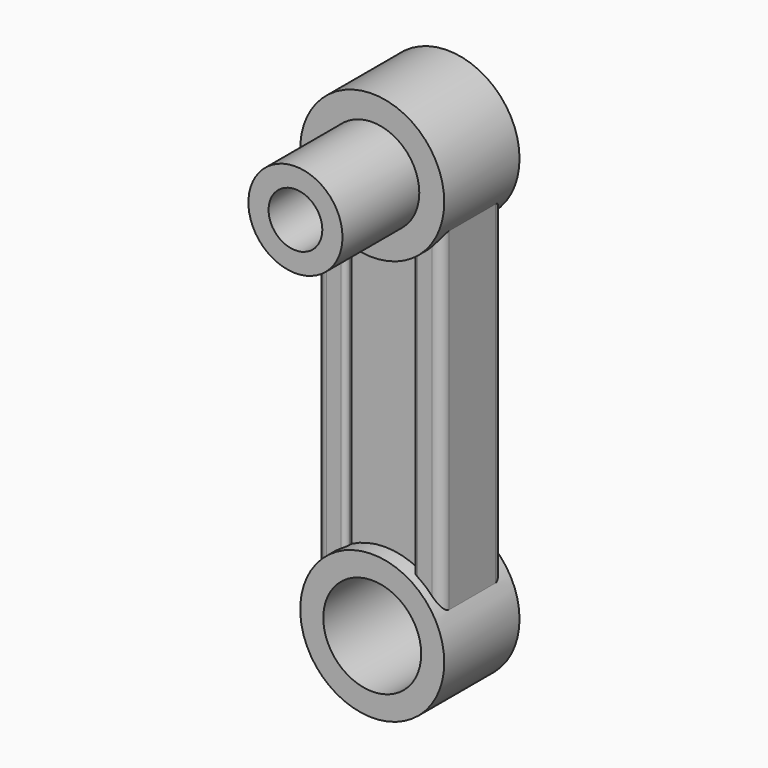
from build123d import *

# Parameters (mm, degrees)
F0_R           = 3.75
F0_R_2         = 2.55
F0_R_3         = 2.45
F1_DEPTH       = 4.9
F6_R           = 2.45
F7_DEPTH       = 5
F8_D           = 2.8
F8_CBORE_D     = 3.8
F8_CBORE_DEPTH = 1.5


with BuildPart() as f1:
    # F0 (on Front) → F1 (new body)
    with BuildSketch(Plane.XZ):
        with Locations((0, -10.556)):
            Circle(F0_R)
        with Locations((0, -10.556)):
            Circle(F0_R_2, mode=Mode.SUBTRACT)
        with Locations((0, 10.556)):
            Circle(F0_R)
        with Locations((0, 10.556)):
            Circle(F0_R_3, mode=Mode.SUBTRACT)
        with Locations((0, 10.556)):
            Circle(F0_R_3)
    extrude(amount=F1_DEPTH)

    # F2 (on Top) → F3 (join, up to the next surface of F1)
    with BuildSketch(Plane.XY):
        with BuildLine():
            Line((-2, -0.45), (-2.75, -0.45))
            ThreePointArc((-2.75, -0.45), (-3.1035533906, -0.5964466094), (-3.25, -0.95))
            Line((-3.25, -0.95), (-3.25, -3.95))
            ThreePointArc((-3.25, -3.95), (-3.1035533906, -4.3035533906), (-2.75, -4.45))
            Line((-2.75, -4.45), (-2, -4.45))
            ThreePointArc((-2, -4.45), (-1.8232233047, -4.3767766953), (-1.75, -4.2))
            Line((-1.75, -4.2), (-1.75, -4.075))
            Line((-1.75, -4.075), (1.75, -4.075))
            Line((1.75, -4.075), (1.75, -4.2))
            ThreePointArc((1.75, -4.2), (1.8232233047, -4.3767766953), (2, -4.45))
            Line((2, -4.45), (2.75, -4.45))
            ThreePointArc((2.75, -4.45), (3.1035533906, -4.3035533906), (3.25, -3.95))
            Line((3.25, -3.95), (3.25, -0.95))
            ThreePointArc((3.25, -0.95), (3.1035533906, -0.5964466094), (2.75, -0.45))
            Line((2.75, -0.45), (2, -0.45))
            ThreePointArc((2, -0.45), (1.8232233047, -0.5232233047), (1.75, -0.7))
            Line((1.75, -0.7), (1.75, -0.825))
            Line((1.75, -0.825), (-1.75, -0.825))
            Line((-1.75, -0.825), (-1.75, -0.7))
            ThreePointArc((-1.75, -0.7), (-1.8232233047, -0.5232233047), (-2, -0.45))
        make_face()
    extrude(until=Until.NEXT)

    # F3_face (on face) → F4 (join, up to the next surface of F1)
    with BuildSketch(Plane(origin=(0, -2.45, 0), x_dir=(1, 0, 0), z_dir=(0, 0, -1))):
        with BuildLine():
            Line((2, -2), (2.75, -2))
            ThreePointArc((2.75, -2), (3.1035533906, -1.8535533906), (3.25, -1.5))
            Line((3.25, -1.5), (3.25, 1.5))
            ThreePointArc((3.25, 1.5), (3.1035533906, 1.8535533906), (2.75, 2))
            Line((2.75, 2), (2, 2))
            ThreePointArc((2, 2), (1.8232233047, 1.9267766953), (1.75, 1.75))
            Line((1.75, 1.75), (1.75, 1.625))
            Line((1.75, 1.625), (-1.75, 1.625))
            Line((-1.75, 1.625), (-1.75, 1.75))
            ThreePointArc((-1.75, 1.75), (-1.8232233047, 1.9267766953), (-2, 2))
            Line((-2, 2), (-2.75, 2))
            ThreePointArc((-2.75, 2), (-3.1035533906, 1.8535533906), (-3.25, 1.5))
            Line((-3.25, 1.5), (-3.25, -1.5))
            ThreePointArc((-3.25, -1.5), (-3.1035533906, -1.8535533906), (-2.75, -2))
            Line((-2.75, -2), (-2, -2))
            ThreePointArc((-2, -2), (-1.8232233047, -1.9267766953), (-1.75, -1.75))
            Line((-1.75, -1.75), (-1.75, -1.625))
            Line((-1.75, -1.625), (1.75, -1.625))
            Line((1.75, -1.625), (1.75, -1.75))
            ThreePointArc((1.75, -1.75), (1.8232233047, -1.9267766953), (2, -2))
        make_face()
    extrude(until=Until.NEXT)

    # F6 (on face) → F7 (join)
    with BuildSketch(Plane.XZ.offset(4.9)):
        with Locations((0, 10.556)):
            Circle(F6_R)
    extrude(amount=F7_DEPTH)

    # F8 (through all)
    with Locations(Plane(origin=(0, 0, 0), x_dir=(-1, 0, 0), z_dir=(0, 1, 0))):
        with Locations((0, 10.556)):
            CounterBoreHole(F8_D / 2, F8_CBORE_D / 2, F8_CBORE_DEPTH)


solid = f1.part
